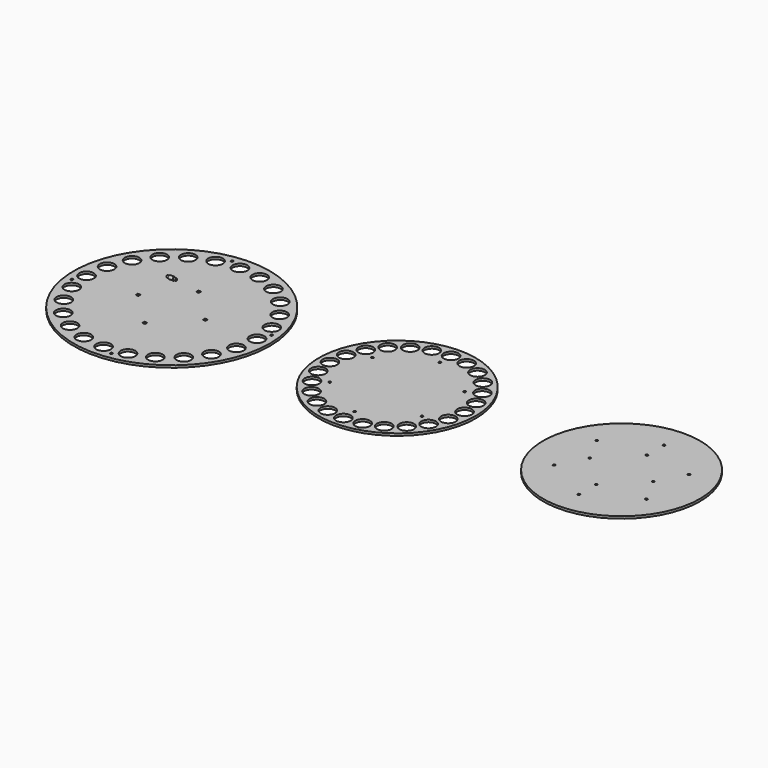
from build123d import *

# Parameters (mm, degrees)
F0_R     = 175
F0_R_2   = 13
F0_R_3   = 2
F0_W     = 5
F0_H     = 5
F1_DEPTH = 4
F2_R     = 3
F2_R_2   = 2
F3_DEPTH = 4
F4_DEPTH = 8
F5_R     = 140
F5_R_2   = 13
F5_R_3   = 2
F6_DEPTH = 4
F5_R_4   = 2.05


with BuildPart() as f1:
    # F0 (on Top) → F1 (new body)
    with BuildSketch(Plane.XY):
        Circle(F0_R)
        with Locations((-107.4802307404, -107.4802307404)):
            Circle(F0_R_2, mode=Mode.SUBTRACT)
        with Locations((-76, -131.6358613752)):
            Circle(F0_R_2, mode=Mode.SUBTRACT)
        with Locations((-39.3404948556, -146.8207255959)):
            Circle(F0_R_2, mode=Mode.SUBTRACT)
        with Locations((-131.6358613752, -76)):
            Circle(F0_R_2, mode=Mode.SUBTRACT)
        with Locations((-146.8207255959, -39.3404948556)):
            Circle(F0_R_2, mode=Mode.SUBTRACT)
        with Locations((-161.1097899732, -21.2105062358)):
            Circle(F0_R_3, mode=Mode.SUBTRACT)
        with Locations((21.2105062358, -161.1097899732)):
            Circle(F0_R_3, mode=Mode.SUBTRACT)
        with Locations((0, -152)):
            Circle(F0_R_2, mode=Mode.SUBTRACT)
        with Locations((39.3404948556, -146.8207255959)):
            Circle(F0_R_2, mode=Mode.SUBTRACT)
        with Locations((76, -131.6358613752)):
            Circle(F0_R_2, mode=Mode.SUBTRACT)
        with Locations((107.4802307404, -107.4802307404)):
            Circle(F0_R_2, mode=Mode.SUBTRACT)
        with Locations((0, -60)):
            Rectangle(F0_W, F0_H, mode=Mode.SUBTRACT)
        with Locations((131.6358613752, -76)):
            Circle(F0_R_2, mode=Mode.SUBTRACT)
        with Locations((146.8207255959, -39.3404948556)):
            Circle(F0_R_2, mode=Mode.SUBTRACT)
        with Locations((-152, 0)):
            Circle(F0_R_2, mode=Mode.SUBTRACT)
        with Locations((-146.8207255959, 39.3404948556)):
            Circle(F0_R_2, mode=Mode.SUBTRACT)
        with Locations((-131.6358613752, 76)):
            Circle(F0_R_2, mode=Mode.SUBTRACT)
        with Locations((-60, 0)):
            Rectangle(F0_W, F0_H, mode=Mode.SUBTRACT)
        with Locations((-107.4802307404, 107.4802307404)):
            Circle(F0_R_2, mode=Mode.SUBTRACT)
        with Locations((-76, 131.6358613752)):
            Circle(F0_R_2, mode=Mode.SUBTRACT)
        with Locations((-39.3404948556, 146.8207255959)):
            Circle(F0_R_2, mode=Mode.SUBTRACT)
        with Locations((-21.2105062358, 161.1097899732)):
            Circle(F0_R_3, mode=Mode.SUBTRACT)
        with Locations((60, 0)):
            Rectangle(F0_W, F0_H, mode=Mode.SUBTRACT)
        with Locations((0, 60)):
            Rectangle(F0_W, F0_H, mode=Mode.SUBTRACT)
        with Locations((152, 0)):
            Circle(F0_R_2, mode=Mode.SUBTRACT)
        with Locations((161.1097899732, 21.2105062358)):
            Circle(F0_R_3, mode=Mode.SUBTRACT)
        with Locations((146.8207255959, 39.3404948556)):
            Circle(F0_R_2, mode=Mode.SUBTRACT)
        with Locations((131.6358613752, 76)):
            Circle(F0_R_2, mode=Mode.SUBTRACT)
        with Locations((0, 152)):
            Circle(F0_R_2, mode=Mode.SUBTRACT)
        with Locations((39.3404948556, 146.8207255959)):
            Circle(F0_R_2, mode=Mode.SUBTRACT)
        with Locations((76, 131.6358613752)):
            Circle(F0_R_2, mode=Mode.SUBTRACT)
        with Locations((107.4802307404, 107.4802307404)):
            Circle(F0_R_2, mode=Mode.SUBTRACT)
    extrude(amount=F1_DEPTH)


with BuildPart() as f3:
    # F2 (on Right) → F3 (new body, symmetric)
    with BuildSketch(Plane.YZ):
        with Locations((0, 50)):
            Circle(F2_R)
        with Locations((0, 50)):
            Circle(F2_R_2, mode=Mode.SUBTRACT)
    extrude(amount=F3_DEPTH, both=True)

    # F2 (on Right) → F4 (join, symmetric)
    with BuildSketch(Plane.YZ):
        with Locations((0, 50)):
            Circle(F2_R_2)
    extrude(amount=F4_DEPTH, both=True)


with BuildPart() as f6:
    # F5 (on face) → F6 (new body)
    with BuildSketch(Plane.XY.offset(4)):
        with Locations((400, 2.5)):
            Circle(F5_R)
        with Locations((368.9417145877, -113.4110991547)):
            Circle(F5_R_2, mode=Mode.SUBTRACT)
        with Locations((340, -101.4230484541)):
            Circle(F5_R_2, mode=Mode.SUBTRACT)
        with Locations((315.1471862576, -82.3528137424)):
            Circle(F5_R_2, mode=Mode.SUBTRACT)
        with Locations((296.0769515459, -57.5)):
            Circle(F5_R_2, mode=Mode.SUBTRACT)
        with Locations((317.7275866405, -45)):
            Circle(F5_R_3, mode=Mode.SUBTRACT)
        with Locations((284.0889008453, -28.5582854123)):
            Circle(F5_R_2, mode=Mode.SUBTRACT)
        with Locations((400, -117.5)):
            Circle(F5_R_2, mode=Mode.SUBTRACT)
        with Locations((431.0582854123, -113.4110991547)):
            Circle(F5_R_2, mode=Mode.SUBTRACT)
        with Locations((400, -92.5)):
            Circle(F5_R_3, mode=Mode.SUBTRACT)
        with Locations((460, -101.4230484541)):
            Circle(F5_R_2, mode=Mode.SUBTRACT)
        with Locations((484.8528137424, -82.3528137424)):
            Circle(F5_R_2, mode=Mode.SUBTRACT)
        with Locations((503.9230484541, -57.5)):
            Circle(F5_R_2, mode=Mode.SUBTRACT)
        with Locations((482.2724133595, -45)):
            Circle(F5_R_3, mode=Mode.SUBTRACT)
        with Locations((515.9110991547, -28.5582854123)):
            Circle(F5_R_2, mode=Mode.SUBTRACT)
        with Locations((280, 2.5)):
            Circle(F5_R_2, mode=Mode.SUBTRACT)
        with Locations((284.0889008453, 33.5582854123)):
            Circle(F5_R_2, mode=Mode.SUBTRACT)
        with Locations((296.0769515459, 62.5)):
            Circle(F5_R_2, mode=Mode.SUBTRACT)
        with Locations((317.7275866405, 50)):
            Circle(F5_R_3, mode=Mode.SUBTRACT)
        with Locations((315.1471862576, 87.3528137424)):
            Circle(F5_R_2, mode=Mode.SUBTRACT)
        with Locations((340, 106.4230484541)):
            Circle(F5_R_2, mode=Mode.SUBTRACT)
        with Locations((368.9417145877, 118.4110991547)):
            Circle(F5_R_2, mode=Mode.SUBTRACT)
        with Locations((520, 2.5)):
            Circle(F5_R_2, mode=Mode.SUBTRACT)
        with Locations((515.9110991547, 33.5582854123)):
            Circle(F5_R_2, mode=Mode.SUBTRACT)
        with Locations((482.2724133595, 50)):
            Circle(F5_R_3, mode=Mode.SUBTRACT)
        with Locations((503.9230484541, 62.5)):
            Circle(F5_R_2, mode=Mode.SUBTRACT)
        with Locations((484.8528137424, 87.3528137424)):
            Circle(F5_R_2, mode=Mode.SUBTRACT)
        with Locations((400, 97.5)):
            Circle(F5_R_3, mode=Mode.SUBTRACT)
        with Locations((460, 106.4230484541)):
            Circle(F5_R_2, mode=Mode.SUBTRACT)
        with Locations((431.0582854123, 118.4110991547)):
            Circle(F5_R_2, mode=Mode.SUBTRACT)
        with Locations((400, 122.5)):
            Circle(F5_R_2, mode=Mode.SUBTRACT)
    extrude(amount=F6_DEPTH)


with BuildPart() as f6b:
    # F5 (on face) → F6, piece 2 (new body)
    with BuildSketch(Plane.XY.offset(4)):
        with Locations((800, 2.5)):
            Circle(F5_R)
        with Locations((800, -92.5)):
            Circle(F5_R_3, mode=Mode.SUBTRACT)
        with Locations((717.7275866405, -45)):
            Circle(F5_R_3, mode=Mode.SUBTRACT)
        with Locations((800, -54.103)):
            Circle(F5_R_4, mode=Mode.SUBTRACT)
        with Locations((882.2724133595, -45)):
            Circle(F5_R_3, mode=Mode.SUBTRACT)
        with Locations((743.397, 2.5)):
            Circle(F5_R_4, mode=Mode.SUBTRACT)
        with Locations((856.603, 2.5)):
            Circle(F5_R_4, mode=Mode.SUBTRACT)
        with Locations((717.7275866405, 50)):
            Circle(F5_R_3, mode=Mode.SUBTRACT)
        with Locations((800, 59.103)):
            Circle(F5_R_4, mode=Mode.SUBTRACT)
        with Locations((882.2724133595, 50)):
            Circle(F5_R_3, mode=Mode.SUBTRACT)
        with Locations((800, 97.5)):
            Circle(F5_R_3, mode=Mode.SUBTRACT)
    extrude(amount=F6_DEPTH)


solid = Compound([f1.part, f3.part, f6.part, f6b.part])
